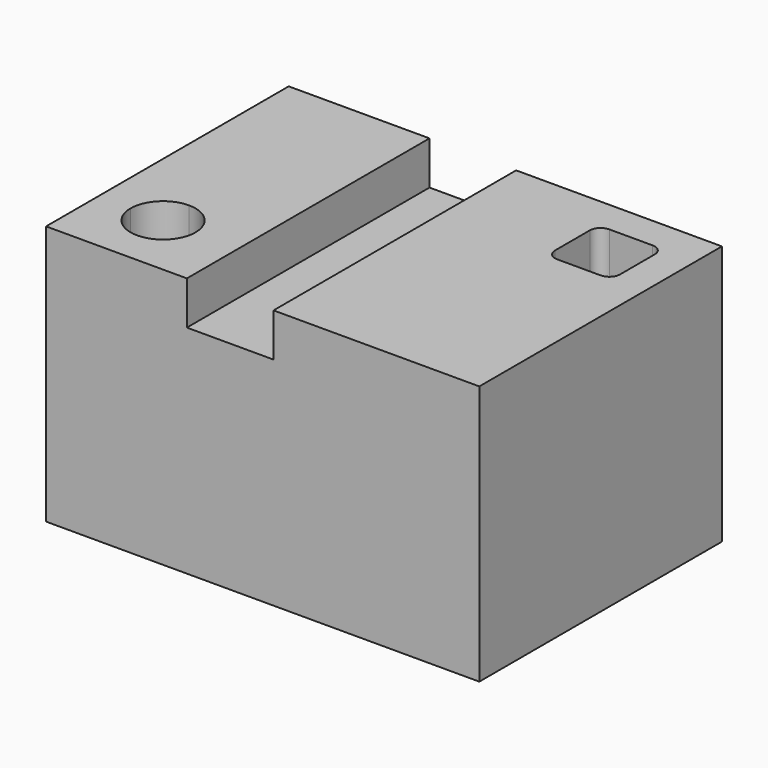
from build123d import *

# Parameters (mm, degrees)
F1_DEPTH = 22.225
F2_W     = 4.7625
F2_H     = 4.7625
F3_DEPTH = 38.101
F4_R     = 1.5875


with BuildPart() as f1:
    # F0 (on Front) → F1 (new body, symmetric)
    with BuildSketch(Plane.XZ):
        Polygon((-31.75, -19.05), (31.75, -19.05), (31.75, 19.05), (1.5875, 19.05), (1.5875, 12.7), (-11.1125, 12.7), (-11.1125, 19.05), (-31.75, 19.05), align=None)
    extrude(amount=F1_DEPTH, both=True)

    # F2 (on face) → F3 (cut, through all)
    with BuildSketch(Plane.XY.offset(19.05)):
        with BuildLine():
            ThreePointArc((-26.9875, -12.7), (-25.592596, -16.067596), (-22.225, -17.4625))
            Line((-22.225, -17.4625), (-22.225, -12.7))
            Line((-22.225, -12.7), (-26.9875, -12.7))
        make_face()
        with BuildLine():
            Line((-22.225, -12.7), (-22.225, -17.4625))
            ThreePointArc((-22.225, -17.4625), (-18.857404, -16.067596), (-17.4625, -12.7))
            Line((-17.4625, -12.7), (-22.225, -12.7))
        make_face()
        with BuildLine():
            Line((-26.9875, -12.7), (-22.225, -12.7))
            Line((-22.225, -12.7), (-22.225, -7.9375))
            ThreePointArc((-22.225, -7.9375), (-25.592596, -9.332404), (-26.9875, -12.7))
        make_face()
        with BuildLine():
            Line((-22.225, -7.9375), (-22.225, -12.7))
            Line((-22.225, -12.7), (-17.4625, -12.7))
            ThreePointArc((-17.4625, -12.7), (-18.857404, -9.332404), (-22.225, -7.9375))
        make_face()
        with Locations((24.60625, 15.08125)):
            Rectangle(F2_W, F2_H)
        with Locations((19.84375, 15.08125)):
            Rectangle(F2_W, F2_H)
        with Locations((24.60625, 10.31875)):
            Rectangle(F2_W, F2_H)
        with Locations((19.84375, 10.31875)):
            Rectangle(F2_W, F2_H)
    extrude(amount=-F3_DEPTH, mode=Mode.SUBTRACT)

    # F4
    f4_edges = [f1.edges().sort_by_distance(p)[0] for p in [
        (17.4625, 17.4625, 0),
        (17.4625, 7.9375, 0),
        (26.9875, 7.9375, 0),
        (26.9875, 17.4625, 0),
    ]]
    fillet(f4_edges, radius=F4_R)


solid = f1.part
